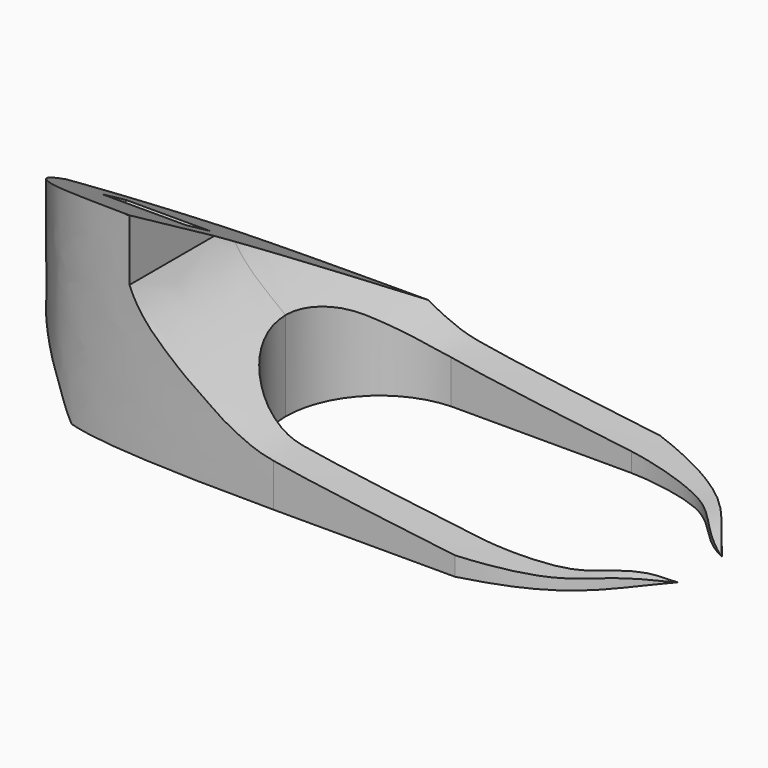
from build123d import *

# Parameters (mm, degrees)
PAD002_DEPTH    = 30
PAD003_DEPTH    = 30
POCKET002_DEPTH = 20
POCKET003_DEPTH = 21.5
SKETCH007_W     = 12
SKETCH007_H     = 5
POCKET004_DEPTH = 12
POCKET010_DEPTH = 56


with BuildPart() as part:
    # Sketch004 → Pad002 (new body)
    with BuildSketch(Plane.XY):
        with BuildLine():
            Line((-9.589778, 13.5), (16.304401, 13.5))
            add(Edge.make_bspline(
                [(16.304401, 13.5), (18.304401, 13.501121), (30.261282, 12.300449), (32.780455, 5.78943), (36.883, 3.99632)],
                knots=[0, 0, 0, 0, 0.5, 1, 1, 1, 1], degree=3))
            add(Edge.make_bspline(
                [(16.418763, 18.5), (30.0728, 14.9629), (31.610432, 10.059164), (36.883, 3.99632)],
                knots=[0, 0, 0, 0, 1, 1, 1, 1], degree=3))
            Line((16.418763, 18.5), (-9.475416, 18.5))
            add(Edge.make_bspline(
                [(-9.475416, 18.5), (-37.3482, 18.4799), (-45.9357, 14.9697), (-52.392, 5.81805), (-53.9591, 0)],
                knots=[0, 0, 0, 0, 0.5, 1, 1, 1, 1], degree=3))
            Line((-53.9591, 0), (-22.519652, 0))
            ThreePointArc((-22.519652, 0), (-18.765757, 9.346551), (-9.589778, 13.5))
        make_face()
    extrude(amount=PAD002_DEPTH)

    # MirroredSketch → Pad003 (join)
    with BuildSketch(Plane.XY):
        with BuildLine():
            ThreePointArc((-22.509759, 0), (-18.649206, -9.4526), (-9.275089, -13.5))
            Line((-9.275089, -13.5), (16.779349, -13.5))
            add(Edge.make_bspline(
                [(16.779349, -13.5), (18.779349, -13.501566), (30.261282, -12.300449), (32.780455, -5.78943), (36.883, -3.99632)],
                knots=[0, 0, 0, 0, 0.5, 1, 1, 1, 1], degree=3))
            add(Edge.make_bspline(
                [(16.579022, -18.5), (30.0728, -14.9629), (31.610432, -10.059164), (36.883, -3.99632)],
                knots=[0, 0, 0, 0, 1, 1, 1, 1], degree=3))
            Line((16.579022, -18.5), (-9.475416, -18.5))
            add(Edge.make_bspline(
                [(-9.475416, -18.5), (-37.3482, -18.4799), (-45.9357, -14.9697), (-52.392, -5.81805), (-53.9591, 0)],
                knots=[0, 0, 0, 0, 0.5, 1, 1, 1, 1], degree=3))
            Line((-53.9591, 0), (-22.509759, 0))
        make_face()
    extrude(amount=PAD003_DEPTH)

    # Sketch005 → Pocket002 (cut, symmetric)
    with BuildSketch(Plane.XZ):
        with BuildLine():
            add(Edge.make_bspline(
                [(-24.537006, -5.962733), (-33.96579, -2.450956), (-37.868225, -2.280037), (-40.937222, 0.666897), (-42.772399, 4.28026), (-44.64164, 5.891069), (-46.771927, 7.751321), (-48.272129, 8.831467), (-49.712326, 9.851604), (-51.122517, 10.871743), (-51.959799, 11.78326), (-52.801899, 13.00826), (-53.108199, 14.38636), (-54.026699, 16.472837)],
                knots=[0, 0, 0, 0, 0.090909, 0.181818, 0.272727, 0.363636, 0.454545, 0.545455, 0.636364, 0.727273, 0.818182, 0.909091, 1, 1, 1, 1], degree=3))
            Line((-54.026699, 16.472837), (-67.115806, 16.580737))
            Line((-67.115806, 16.580737), (-67.115806, -12.040442))
            Line((-67.115806, -12.040442), (-30.519064, -12.040442))
            Line((-30.519064, -12.040442), (-24.537006, -5.962733))
        make_face()
    extrude(amount=POCKET002_DEPTH, both=True, mode=Mode.SUBTRACT)

    # Sketch006 → Pocket003 (cut, symmetric)
    with BuildSketch(Plane.XZ):
        with BuildLine():
            add(Edge.make_bspline(
                [(37.444431, 0), (36.529029, -0.034935), (34.789729, 0.788918), (31.677429, 1.567008), (28.075538, 1.449184), (22.701629, 2.017733), (12.650452, 3.118566), (-9.404895, 5.984315), (-12.561653, 6.893496), (-16.923237, 8.943251), (-19.787928, 11.091768), (-22.070726, 12.43459), (-23.861156, 13.822172), (-29.26718, 18.092406), (-30.571993, 21.281189)],
                knots=[0, 0, 0, 0, 0.083333, 0.166667, 0.25, 0.333333, 0.416667, 0.5, 0.583333, 0.666667, 0.75, 0.833333, 0.916667, 1, 1, 1, 1], degree=3))
            Line((-30.571993, 21.281189), (-30.571993, 45.329951))
            Line((-30.571993, 45.329951), (49.525864, 45.329951))
            Line((49.525864, 45.329951), (49.525864, 21.336774))
            Line((49.525864, 21.336774), (49.525864, 7.285458))
            Line((49.525864, 7.285458), (37.444431, 0))
        make_face()
    extrude(amount=POCKET003_DEPTH, both=True, mode=Mode.SUBTRACT)

    # Sketch007 → Pocket004 (cut)
    with BuildSketch(Plane(origin=(-41, 0, 20), x_dir=(1, 0, 0), z_dir=(0, 0.5, 0.866025))):
        Rectangle(SKETCH007_W, SKETCH007_H)
    extrude(amount=-POCKET004_DEPTH, mode=Mode.SUBTRACT)

    # Sketch016 → Pocket010 (cut)
    with BuildSketch(Plane(origin=(-9, 0, -8), x_dir=(0, 1, 0), z_dir=(1, 0, 0))):
        Polygon((19.058086, 16.72018), (-18.576018, 38.44824), (-18.576018, 49.434164), (19.058086, 49.434164), align=None)
    extrude(amount=-POCKET010_DEPTH, mode=Mode.SUBTRACT)


with BuildPart() as part_1:
    # Body001 placement: moved
    add(part.part.moved(Location((0, 0, 3))))


solid = part_1.part
